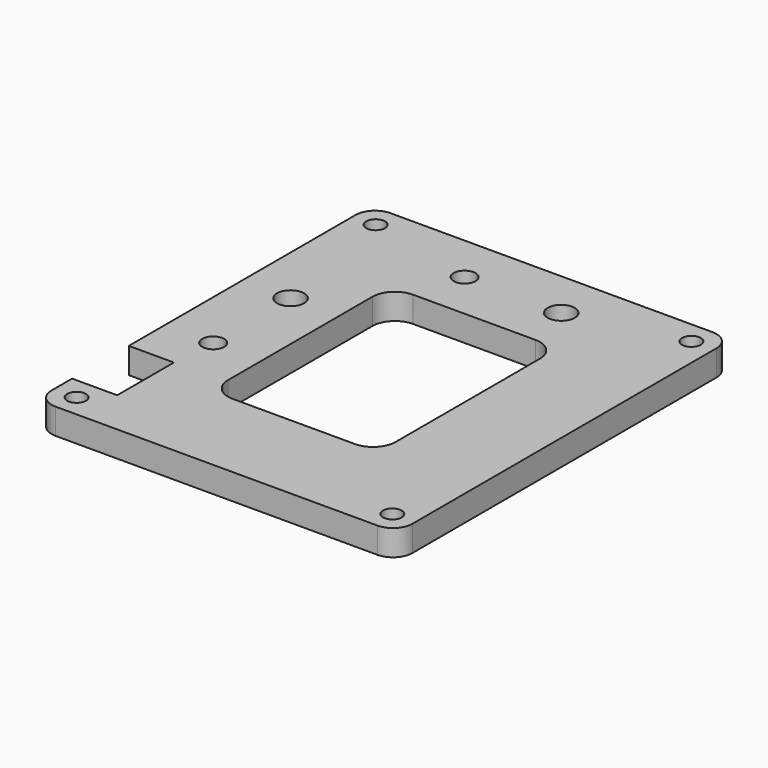
from build123d import *

# Parameters (mm, degrees)
PAD_DEPTH       = 4
SKETCH001_R     = 1.45
HOLE_DEPTH      = 4.001
SKETCH002_W     = 7
SKETCH002_H     = 11
POCKET_DEPTH    = 4.001
SKETCH003_R     = 2.1
POCKET001_DEPTH = 4.001
SKETCH004_R     = 1.7
HOLE001_DEPTH   = 4.001
POCKET002_DEPTH = 4.001


with BuildPart() as part:
    # Sketch → Pad (new body)
    with BuildSketch(Plane.XY):
        with BuildLine():
            Line((-25, -32.5), (25, -32.5))
            ThreePointArc((25, -32.5), (27.12132, -31.62132), (28, -29.5))
            Line((28, -29.5), (28, 29.5))
            ThreePointArc((28, 29.5), (27.12132, 31.62132), (25, 32.5))
            Line((25, 32.5), (-25, 32.5))
            ThreePointArc((-25, 32.5), (-27.12132, 31.62132), (-28, 29.5))
            Line((-28, 29.5), (-28, -29.5))
            ThreePointArc((-28, -29.5), (-27.12132, -31.62132), (-25, -32.5))
        make_face()
    extrude(amount=PAD_DEPTH)

    # Sketch001 (on Face10 of Pad) → Hole (cut, through all)
    with BuildSketch(Plane.XY.offset(4)):
        with Locations((24.5, -29)):
            Circle(SKETCH001_R)
        with Locations((-24.5, -29)):
            Circle(SKETCH001_R)
        with Locations((-24.5, 29)):
            Circle(SKETCH001_R)
        with Locations((24.5, 29)):
            Circle(SKETCH001_R)
    extrude(amount=-HOLE_DEPTH, mode=Mode.SUBTRACT)

    # Sketch002 (on Face5 of Hole) → Pocket (cut, through all)
    with BuildSketch(Plane.XY.offset(4)):
        with Locations((-24.5, -20)):
            Rectangle(SKETCH002_W, SKETCH002_H)
    extrude(amount=-POCKET_DEPTH, mode=Mode.SUBTRACT)

    # Sketch003 (on Face5 of Pocket) → Pocket001 (cut, through all)
    with BuildSketch(Plane.XY.offset(4)):
        with Locations((7.5, 25)):
            Circle(SKETCH003_R)
        with Locations((-20.5, 7.5)):
            Circle(SKETCH003_R)
    extrude(amount=-POCKET001_DEPTH, mode=Mode.SUBTRACT)

    # Sketch004 (on Face5 of Pocket001) → Hole001 (cut, through all)
    with BuildSketch(Plane.XY.offset(4)):
        with Locations((-20.5, -7.5)):
            Circle(SKETCH004_R)
        with Locations((-7.5, 25)):
            Circle(SKETCH004_R)
    extrude(amount=-HOLE001_DEPTH, mode=Mode.SUBTRACT)

    # Sketch005 (on Face5 of Hole001) → Pocket002 (cut, through all)
    with BuildSketch(Plane.XY.offset(4)):
        with BuildLine():
            Line((-9.5, 17.5), (9.5, 17.5))
            ThreePointArc((13, 14), (11.974874, 16.474874), (9.5, 17.5))
            Line((13, 14), (13, -14))
            ThreePointArc((9.5, -17.5), (11.974874, -16.474874), (13, -14))
            Line((9.5, -17.5), (-9.5, -17.5))
            ThreePointArc((-13, -14), (-11.974874, -16.474874), (-9.5, -17.5))
            Line((-13, -14), (-13, 14))
            ThreePointArc((-9.5, 17.5), (-11.974874, 16.474874), (-13, 14))
        make_face()
    extrude(amount=-POCKET002_DEPTH, mode=Mode.SUBTRACT)


solid = part.part
